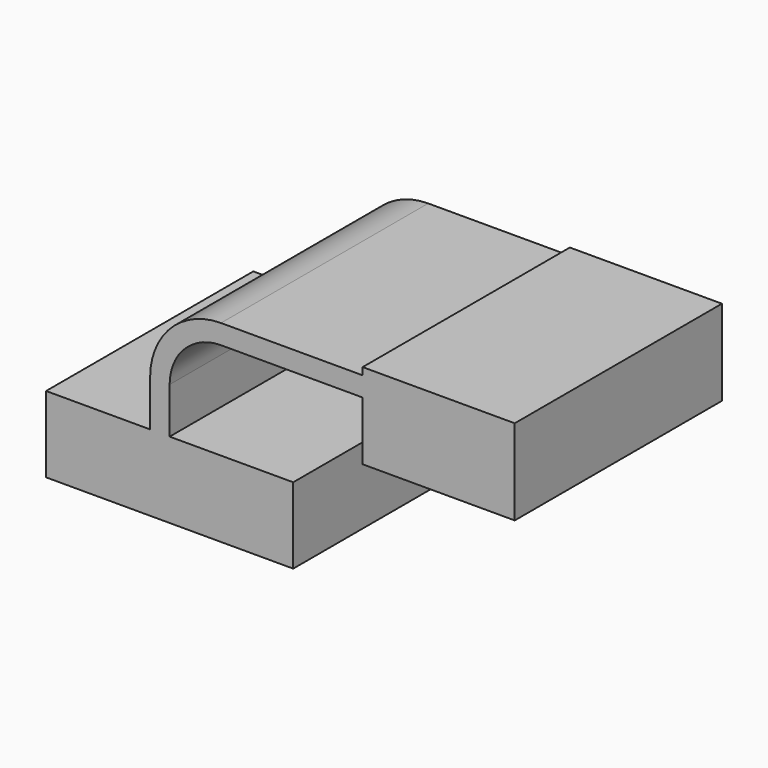
from build123d import *

# Parameters (mm, degrees)
F1_DEPTH = 43.25595


with BuildPart() as f1:
    # F0 (on Front) → F1 (new body, symmetric)
    with BuildSketch(Plane.XZ):
        with BuildLine():
            Line((-6.523012, 28.022824), (-6.523012, 12.7))
            Line((-6.523012, 12.7), (0, 12.7))
            Line((0, 12.7), (0, 28.022824))
            ThreePointArc((0, 28.022824), (5.021654, 40.14617), (17.145, 45.167824))
            Line((17.145, 45.167824), (64.466302, 45.167824))
            Line((64.466302, 45.167824), (64.466302, 51.690836))
            Line((64.466302, 51.690836), (17.145, 51.690836))
            ThreePointArc((17.145, 51.690836), (0.409188, 44.758636), (-6.523012, 28.022824))
        make_face()
        Polygon((-6.523012, 12.7), (-41.275, 12.7), (-41.275, -12.7), (41.275, -12.7), (41.275, 12.7), (0, 12.7), align=None)
        Polygon((64.466302, 54.113042), (64.466302, 51.690836), (64.466302, 45.167824), (64.466302, 25.538042), (115.266302, 25.538042), (115.266302, 54.113042), align=None)
    extrude(amount=F1_DEPTH, both=True)


solid = f1.part
